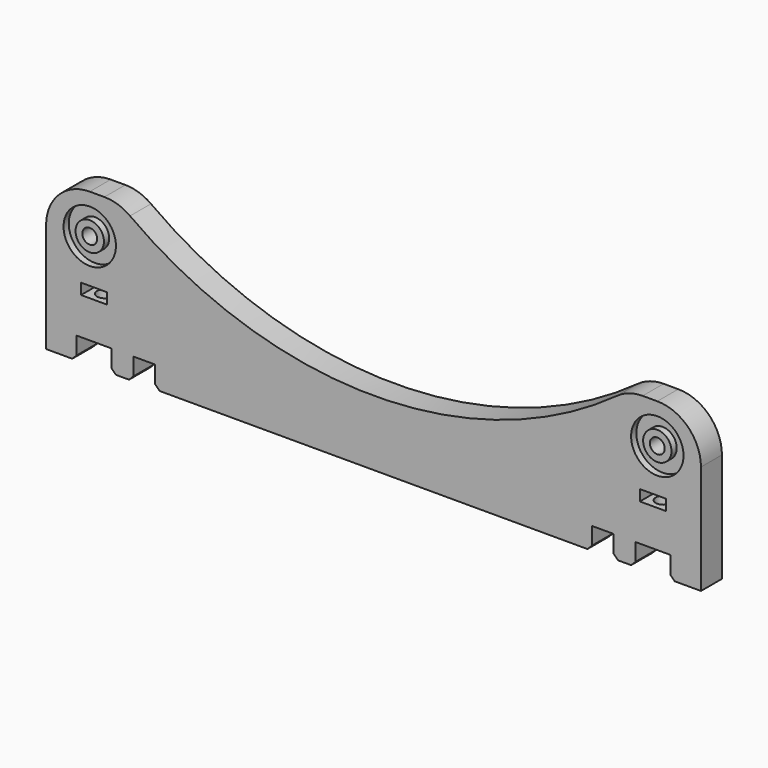
from build123d import *

# Parameters (mm, degrees)
F1_DEPTH  = 6
F2_R      = 6
F2_R_2    = 3.25
F3_DEPTH  = 1.5
F4_W      = 8
F4_H      = 5
F4_W_2    = 6
F4_H_2    = 2.5
F4_W_3    = 5
F5_DEPTH  = 6.001
F6_R      = 10
F7_SIZE   = 1
F8_R      = 1.75
F9_DEPTH  = 14.5
F10_R     = 1.75
F11_DEPTH = 14.5
F12_R     = 1.7
F13_DEPTH = 6.001
F14_R     = 1.7
F15_DEPTH = 6.001
F16_W     = 6
F16_H     = 6
F16_R     = 1.7
F17_DEPTH = 2


with BuildPart() as f1:
    # F0 (on Front) → F1 (new body)
    with BuildSketch(Plane.XZ):
        with BuildLine():
            Line((-75, 0), (75, 0))
            Line((75, 0), (75, 35))
            Line((75, 35), (58.3095189485, 35))
            ThreePointArc((58.3095189485, 35), (0, 15), (-58.3095189485, 35))
            Line((-58.3095189485, 35), (-75, 35))
            Line((-75, 35), (-75, 0))
        make_face()
    extrude(amount=F1_DEPTH)

    # F2 (on face) → F3 (cut)
    with BuildSketch(Plane.XZ.offset(6)):
        with Locations((-65, 26)):
            Circle(F2_R)
        with Locations((-65, 26)):
            Circle(F2_R_2, mode=Mode.SUBTRACT)
        with Locations((65, 26)):
            Circle(F2_R)
        with Locations((65, 26)):
            Circle(F2_R_2, mode=Mode.SUBTRACT)
    extrude(amount=-F3_DEPTH, mode=Mode.SUBTRACT)

    # F4 (on face) → F5 (cut, through all)
    with BuildSketch(Plane.XZ.offset(6)):
        with Locations((-64, 2.5)):
            Rectangle(F4_W, F4_H)
        with Locations((64, 2.5)):
            Rectangle(F4_W, F4_H)
        with Locations((-64, 14.75)):
            Rectangle(F4_W_2, F4_H_2)
        with Locations((64, 14.75)):
            Rectangle(F4_W_2, F4_H_2)
        with Locations((-52.5, 2.5)):
            Rectangle(F4_W_3, F4_H)
        with Locations((52.5, 2.5)):
            Rectangle(F4_W_3, F4_H)
    extrude(amount=-F5_DEPTH, mode=Mode.SUBTRACT)

    # F6
    f6_edges = [f1.edges().sort_by_distance(p)[0] for p in [
        (-75, -3, 35),
        (75, -3, 35),
        (58.309519, -3, 35),
        (-58.309519, -3, 35),
    ]]
    fillet(f6_edges, radius=F6_R)

    # F7
    f7_edges = [f1.edges().sort_by_distance(p)[0] for p in [
        (-68, -3, 0),
        (-60, -3, 0),
        (60, -3, 0),
        (68, -3, 0),
        (-55, -3, 0),
        (-50, -3, 0),
        (50, -3, 0),
        (55, -3, 0),
    ]]
    chamfer(f7_edges, length=F7_SIZE)

    # F8 (on face) → F9 (cut)
    with BuildSketch(Plane(origin=(0, 0, 5), x_dir=(1, 0, 0), z_dir=(0, 0, -1))):
        with Locations((-64, 3)):
            Circle(F8_R)
    extrude(amount=-F9_DEPTH, mode=Mode.SUBTRACT)

    # F10 (on face) → F11 (cut)
    with BuildSketch(Plane(origin=(0, 0, 5), x_dir=(1, 0, 0), z_dir=(0, 0, -1))):
        with Locations((64, 3)):
            Circle(F10_R)
    extrude(amount=-F11_DEPTH, mode=Mode.SUBTRACT)

    # F12 (on face) → F13 (cut, through all)
    with BuildSketch(Plane.XZ.offset(6)):
        with Locations((-65, 26)):
            Circle(F12_R)
    extrude(amount=-F13_DEPTH, mode=Mode.SUBTRACT)

    # F14 (on face) → F15 (cut, through all)
    with BuildSketch(Plane.XZ.offset(6)):
        with Locations((65, 26)):
            Circle(F14_R)
    extrude(amount=-F15_DEPTH, mode=Mode.SUBTRACT)

    # F16 (on face) → F17 (cut)
    with BuildSketch(Plane(origin=(0, 0, 0), x_dir=(-1, 0, 0), z_dir=(0, 1, 0))):
        with Locations((65, 26)):
            Rectangle(F16_W, F16_H)
        with Locations((65, 26)):
            Circle(F16_R, mode=Mode.SUBTRACT)
        with Locations((-65, 26)):
            Rectangle(F16_W, F16_H)
        with Locations((-65, 26)):
            Circle(F16_R, mode=Mode.SUBTRACT)
    extrude(amount=-F17_DEPTH, mode=Mode.SUBTRACT)


solid = f1.part
